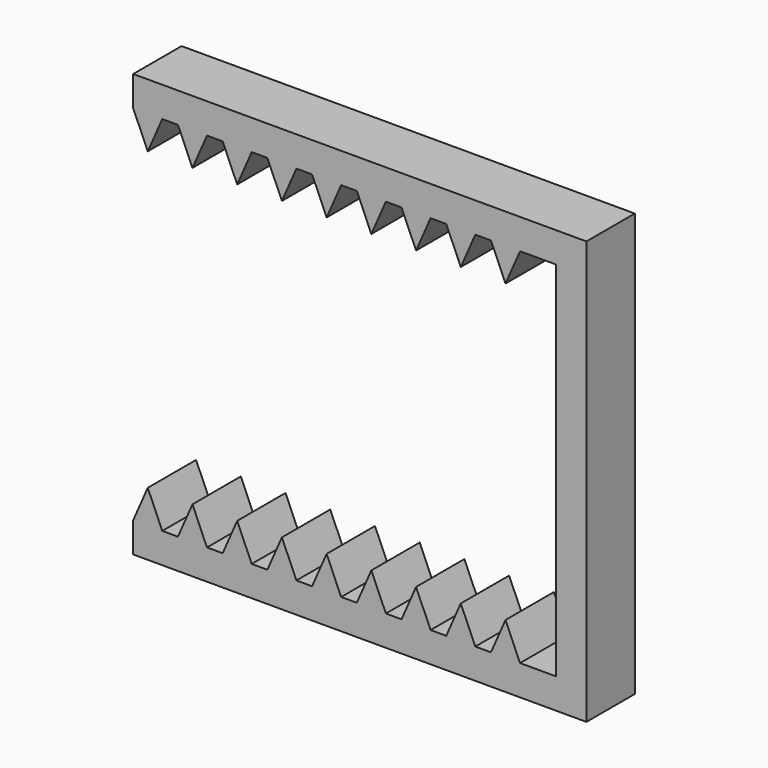
from build123d import *

# Parameters (mm, degrees)
F1_DEPTH = 12.7


with BuildPart() as f1:
    # F0 (on Front) → F1 (new body)
    with BuildSketch(Plane.XZ):
        Polygon((36.096099, -44.45), (36.096099, -38.1), (28.487101, -38.1), (22.380099, -38.1), (19.089101, -38.1), (12.982099, -38.1), (9.691101, -38.1), (3.584099, -38.1), (0.293101, -38.1), (-5.813901, -38.1), (-9.104899, -38.1), (-15.211901, -38.1), (-18.502899, -38.1), (-24.609901, -38.1), (-27.900899, -38.1), (-34.007901, -38.1), (-37.298899, -38.1), (-43.405901, -38.1), (-46.696899, -38.1), (-52.803901, -38.1), (-52.803901, -44.45), align=None)
        Polygon((-21.5564, -31.118558), (-24.609901, -38.1), (-18.502899, -38.1), align=None)
        Polygon((22.380099, -38.1), (28.487101, -38.1), (25.4336, -31.118558), align=None)
        Polygon((42.446099, 44.45), (36.096099, 44.45), (36.096099, 38.1), (36.096099, -38.1), (36.096099, -44.45), (42.446099, -44.45), align=None)
        Polygon((-30.9544, -31.118558), (-34.007901, -38.1), (-27.900899, -38.1), align=None)
        Polygon((36.096099, 38.1), (36.096099, 44.45), (-52.803901, 44.45), (-52.803901, 38.1), (-46.696899, 38.1), (-43.405901, 38.1), (-37.298899, 38.1), (-34.007901, 38.1), (-27.900899, 38.1), (-24.609901, 38.1), (-18.502899, 38.1), (-15.211901, 38.1), (-9.104899, 38.1), (-5.813901, 38.1), (0.293101, 38.1), (3.584099, 38.1), (9.691101, 38.1), (12.982099, 38.1), (19.089101, 38.1), (22.380099, 38.1), (28.487101, 38.1), align=None)
        Polygon((-40.3524, -31.118558), (-43.405901, -38.1), (-37.298899, -38.1), align=None)
        Polygon((-5.813901, -38.1), (0.293101, -38.1), (-2.7604, -31.118558), align=None)
        Polygon((-37.298899, 38.1), (-43.405901, 38.1), (-40.3524, 31.118558), align=None)
        Polygon((-12.1584, 31.118558), (-9.104899, 38.1), (-15.211901, 38.1), align=None)
        Polygon((-27.900899, 38.1), (-34.007901, 38.1), (-30.9544, 31.118558), align=None)
        Polygon((3.584099, -38.1), (9.691101, -38.1), (6.6376, -31.118558), align=None)
        Polygon((16.0356, 31.118558), (19.089101, 38.1), (12.982099, 38.1), align=None)
        Polygon((-46.696899, 38.1), (-52.803901, 38.1), (-49.7504, 31.118558), align=None)
        Polygon((6.6376, 31.118558), (9.691101, 38.1), (3.584099, 38.1), align=None)
        Polygon((25.4336, 31.118558), (28.487101, 38.1), (22.380099, 38.1), align=None)
        Polygon((12.982099, -38.1), (19.089101, -38.1), (16.0356, -31.118558), align=None)
        Polygon((-2.7604, 31.118558), (0.293101, 38.1), (-5.813901, 38.1), align=None)
        Polygon((-18.502899, 38.1), (-24.609901, 38.1), (-21.5564, 31.118558), align=None)
        Polygon((-49.7504, -31.118558), (-52.803901, -38.1), (-46.696899, -38.1), align=None)
        Polygon((-15.211901, -38.1), (-9.104899, -38.1), (-12.1584, -31.118558), align=None)
    extrude(amount=F1_DEPTH)


solid = f1.part
